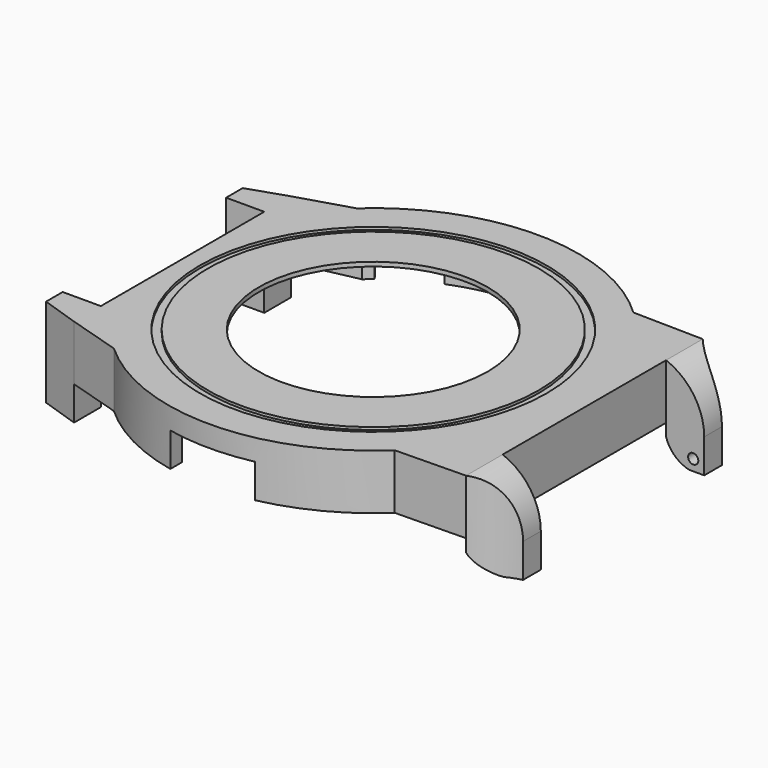
from build123d import *

# Parameters (mm, degrees)
PAD_DEPTH            = 6.5
POCKET_DEPTH         = 6
SKETCH002_R          = 13.5
POCKET001_DEPTH      = 1
SKETCH003_W          = 5.4
SKETCH003_H          = 6.5
PAD001_DEPTH         = 4.5
POCKET002_DEPTH      = 10
SKETCH010_W          = 3.95
SKETCH010_H          = 6.5
PAD002_DEPTH         = 4.5
POCKET005_DEPTH      = 10
SKETCH014_R          = 20.45
SKETCH014_R_2        = 19.5
POCKET008_DEPTH      = 0.3
SKETCH015_R          = 2.2
SKETCH015_R_2        = 0.975
PAD003_DEPTH         = 2
POCKET009_DEPTH      = 4
POCKET010_DEPTH      = 4
PAD004_DEPTH         = 4
SKETCH019_R          = 0.6
POCKET011_DEPTH      = 2
SKETCH020_R          = 0.6
POCKET012_DEPTH      = 2
POCKET013_DEPTH      = 12.151
POCKET013_DEPTH_BACK = 36.251


with BuildPart() as part:
    # Sketch → Pad (new body)
    with BuildSketch(Plane.XY):
        with BuildLine():
            Line((-22.5019915649, 16), (-22.5019915649, -16))
            Line((-22.5019915649, -16), (-16.2858834577, -17.9000000001))
            ThreePointArc((-16.2858834577, -17.9000000001), (0.2206895737, -24.1989937004), (16.6096357576, -17.5999999999))
            Line((16.6096357576, -17.5999999999), (24.9082802252, -17.45))
            Line((24.9082802252, 17.45), (24.9082802252, -17.45))
            Line((16.6096357576, 17.6), (24.9082802252, 17.45))
            ThreePointArc((16.6096357576, 17.6), (0.2206895736, 24.1989937004), (-16.2858834578, 17.9))
            Line((-22.5019915649, 16), (-16.2858834578, 17.9))
        make_face()
    extrude(amount=PAD_DEPTH)

    # Sketch001 → Pocket (cut)
    with BuildSketch(Plane.XY):
        with BuildLine():
            Line((-14.8539557021, 16.9), (-21.2122180433, 15.55))
            Line((-21.2122180433, 15.55), (-21.2122180433, -15.55))
            Line((-21.2122180433, -15.55), (-14.8539557021, -16.9))
            ThreePointArc((-14.8539557021, -16.9), (-0.0760301383, -22.4998715423), (14.739402973, -17))
            Line((14.739402973, -17), (23.6191552218, -16.4))
            Line((23.6191552218, 16.4), (23.6191552218, -16.4))
            Line((14.739402973, 17), (23.6191552218, 16.4))
            ThreePointArc((14.739402973, 17), (-0.0760301383, 22.4998715423), (-14.8539557021, 16.9))
        make_face()
    extrude(amount=POCKET_DEPTH, mode=Mode.SUBTRACT)

    # Sketch002 (on Face19 of Pocket) → Pocket001 (cut)
    with BuildSketch(Plane(origin=(0, 0, 6), x_dir=(1, 0, 0), z_dir=(0, 0, -1))):
        Circle(SKETCH002_R)
    extrude(amount=-POCKET001_DEPTH, mode=Mode.SUBTRACT)

    # Sketch003 (on Face7 of Pad) → Pad001 (join)
    with BuildSketch(Plane.YZ.offset(24.9082802252)):
        with Locations((-14.75, 3.25)):
            Rectangle(SKETCH003_W, SKETCH003_H)
        with Locations((14.75, 3.25)):
            Rectangle(SKETCH003_W, SKETCH003_H)
    extrude(amount=PAD001_DEPTH)

    # Sketch006 (on Face22 of Pad001) → Pocket002 (cut)
    with BuildSketch(Plane.XY.offset(6.5)):
        with BuildLine():
            ThreePointArc((24.9082802252, 17.45), (26.9423471239, 15.7065020586), (29.4082802252, 14.6594169811))
            Line((29.4082802252, 17.45), (29.4082802252, 14.6594169811))
            Line((29.4082802252, 17.45), (24.9082802252, 17.45))
        make_face()
        with BuildLine():
            ThreePointArc((29.4082802252, -14.6594169811), (26.9423471239, -15.7065020586), (24.9082802252, -17.45))
            Line((29.4082802252, -17.45), (24.9082802252, -17.45))
            Line((29.4082802252, -14.6594169811), (29.4082802252, -17.45))
        make_face()
    extrude(amount=-POCKET002_DEPTH, mode=Mode.SUBTRACT)

    # Sketch010 (on Face3 of Pad) → Pad002 (join)
    with BuildSketch(Plane(origin=(-22.5019915649, 0, 0), x_dir=(0, -1, 0), z_dir=(-1, 0, 0))):
        with Locations((-14.025, 3.25)):
            Rectangle(SKETCH010_W, SKETCH010_H)
        with Locations((14.025, 3.25)):
            Rectangle(SKETCH010_W, SKETCH010_H)
    extrude(amount=PAD002_DEPTH)

    # Sketch011 (on Face28 of Pad002) → Pocket005 (cut)
    with BuildSketch(Plane.XY.offset(6.5)):
        Polygon((-27.0019915649, 16), (-22.5019915649, 16), (-27.0019915649, 14.5), align=None)
        Polygon((-22.5019915649, -16), (-27.0019915649, -14.5), (-27.0019915649, -16), align=None)
    extrude(amount=-POCKET005_DEPTH, mode=Mode.SUBTRACT)

    # Sketch014 (on Face10 of Pad) → Pocket008 (cut)
    with BuildSketch(Plane.XY.offset(6.5)):
        Circle(SKETCH014_R)
        Circle(SKETCH014_R_2, mode=Mode.SUBTRACT)
    extrude(amount=-POCKET008_DEPTH, mode=Mode.SUBTRACT)

    # Sketch015 (on Face19 of Pocket) → Pad003 (join)
    with BuildSketch(Plane(origin=(0, 0, 6), x_dir=(1, 0, 0), z_dir=(0, 0, -1))):
        with Locations((-18.42, 13.32)):
            Circle(SKETCH015_R)
        with Locations((-18.42, 13.32)):
            Circle(SKETCH015_R_2, mode=Mode.SUBTRACT)
        with Locations((7.27, 18.56)):
            Circle(SKETCH015_R)
        with Locations((7.27, 18.56)):
            Circle(SKETCH015_R_2, mode=Mode.SUBTRACT)
        with Locations((5.37, -19.79)):
            Circle(SKETCH015_R)
        with Locations((5.37, -19.79)):
            Circle(SKETCH015_R_2, mode=Mode.SUBTRACT)
        with Locations((-18.42, -13.32)):
            Circle(SKETCH015_R)
        with Locations((-18.42, -13.32)):
            Circle(SKETCH015_R_2, mode=Mode.SUBTRACT)
    extrude(amount=PAD003_DEPTH)

    # Sketch016 → Pocket009 (cut)
    with BuildSketch(Plane(origin=(0, 0, 0), x_dir=(-1, 0, 0), z_dir=(0, 0, 1))):
        with BuildLine():
            Line((-5, 23.6778377391), (-5, 21.9374109685))
            ThreePointArc((5, 21.9374109685), (0, 22.5), (-5, 21.9374109685))
            Line((5, 23.6778377391), (5, 21.9374109685))
            ThreePointArc((5, 23.6778377391), (0, 24.2), (-5, 23.6778377391))
        make_face()
    extrude(amount=POCKET009_DEPTH, mode=Mode.SUBTRACT)

    # Sketch017 → Pocket010 (cut)
    with BuildSketch(Plane(origin=(0, 0, 0), x_dir=(-1, 0, 0), z_dir=(0, 0, 1))):
        with BuildLine():
            Line((-3.499984119, -22.2261132717), (-3.5, -23.9455632634))
            ThreePointArc((-3.5, -23.9455632634), (0, -24.2000019575), (3.5, -23.9455632634))
            Line((3.5000158811, -22.2261082701), (3.5, -23.9455632634))
            ThreePointArc((-3.499984119, -22.2261132717), (1.60767e-05, -22.5), (3.5000158811, -22.2261082701))
        make_face()
        with BuildLine():
            ThreePointArc((-13.9498796389, -17.6536358312), (-11.25, -19.4855715851), (-8.3135572795, -20.9077680626))
            Line((-8.3135572795, -20.9077680626), (-8.9416927184, -22.487466094))
            ThreePointArc((-15.0038705449, -18.987466094), (-12.1, -20.9578147716), (-8.9416927184, -22.487466094))
            Line((-13.9498796389, -17.6536358312), (-15.0038705449, -18.987466094))
        make_face()
        with BuildLine():
            ThreePointArc((8.3135572795, -20.9077680626), (11.25, -19.4855715851), (13.9498796389, -17.6536358312))
            Line((13.9498796389, -17.6536358312), (15.0038705449, -18.987466094))
            ThreePointArc((8.9416927184, -22.487466094), (12.1, -20.9578147716), (15.0038705449, -18.987466094))
            Line((8.3135572795, -20.9077680626), (8.9416927184, -22.487466094))
        make_face()
    extrude(amount=POCKET010_DEPTH, mode=Mode.SUBTRACT)

    # Sketch018 (on Face8 of Pocket005) → Pad004 (join)
    with BuildSketch(Plane(origin=(0, 0, 0), x_dir=(1, 0, 0), z_dir=(0, 0, -1))):
        Polygon((-27.0019915649, 14.5), (-27.0019915649, 12.05), (-22.5019915649, 12.05), (-22.5019915649, 16), align=None)
        Polygon((-27.0019915649, -12.05), (-22.5019915649, -12.05), (-22.5019915649, -16), (-27.0019915649, -14.5), align=None)
        with BuildLine():
            Line((24.9082802252, 17.45), (24.9082802252, 12.05))
            Line((29.4082802252, 12.05), (24.9082802252, 12.05))
            Line((29.4082802252, 14.6594169811), (29.4082802252, 12.05))
            ThreePointArc((24.9082802252, 17.45), (26.9423471239, 15.7065020586), (29.4082802252, 14.6594169811))
        make_face()
        with BuildLine():
            Line((24.9082802252, -12.05), (24.9082802252, -17.45))
            ThreePointArc((29.4082802252, -14.6594169811), (26.9423471239, -15.7065020586), (24.9082802252, -17.45))
            Line((29.4082802252, -12.05), (29.4082802252, -14.6594169811))
            Line((24.9082802252, -12.05), (29.4082802252, -12.05))
        make_face()
    extrude(amount=PAD004_DEPTH)

    # Sketch019 (on Face64 of Pad004) → Pocket011 (cut)
    with BuildSketch(Plane.XZ.offset(-12.05)):
        with Locations((28.1082802252, -2.7)):
            Circle(SKETCH019_R)
        with Locations((-25.7019915649, -2.7)):
            Circle(SKETCH019_R)
    extrude(amount=-POCKET011_DEPTH, mode=Mode.SUBTRACT)

    # Sketch020 (on Face50 of Pocket011) → Pocket012 (cut)
    with BuildSketch(Plane(origin=(0, -12.05, 0), x_dir=(-1, 0, 0), z_dir=(0, 1, 0))):
        with Locations((-28.1082802252, -2.7)):
            Circle(SKETCH020_R)
        with Locations((25.7019915649, -2.7)):
            Circle(SKETCH020_R)
    extrude(amount=-POCKET012_DEPTH, mode=Mode.SUBTRACT)

    # Sketch021 (on Face48 of Pocket012) → Pocket013 (cut, two sides)
    with BuildSketch(Plane.XZ.offset(-12.05)) as pocket013_sk:
        with BuildLine():
            ThreePointArc((29.4082802252, 0), (28.1735037783, 3.9528470752), (24.9082802252, 6.5))
            Line((24.9082802252, 6.5), (29.4082802252, 6.5))
            Line((29.4082802252, 6.5), (29.4082802252, 0))
        make_face()
        with BuildLine():
            ThreePointArc((24.9082802252, -1.478433716), (25.9291187082, -3.0916708473), (27.6082802252, -4))
            Line((24.9082802252, -4), (27.6082802252, -4))
            Line((24.9082802252, -1.478433716), (24.9082802252, -4))
        make_face()
    extrude(amount=-POCKET013_DEPTH, mode=Mode.SUBTRACT)
    extrude(pocket013_sk.sketch, amount=POCKET013_DEPTH_BACK, mode=Mode.SUBTRACT)


solid = part.part
